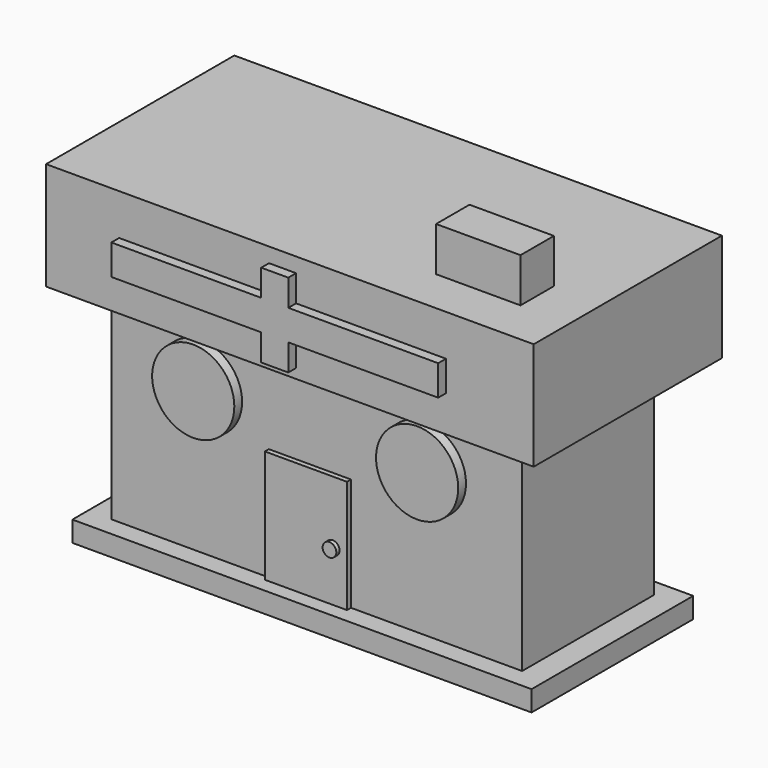
from build123d import *

# Parameters (mm, degrees)
F0_W      = 101.6
F0_H      = 68.58
F1_DEPTH  = 40.72618
F2_W      = 113.5625839233
F2_H      = 49.9769216403
F2_W_2    = 101.6
F2_H_2    = 40.72618
F3_DEPTH  = 5.08
F4_W      = 120.6015869975
F4_H      = 58.1890912727
F5_DEPTH  = 26.66627
F6_W      = 20.8823755383
F6_H      = 10.3238727897
F7_DEPTH  = 37.60094
F8_R      = 10.16
F9_DEPTH  = 2.40593
F10_W     = 20.32
F10_H     = 27.94
F11_DEPTH = 1.23276
F12_R     = 1.691966396
F13_DEPTH = 0.99812
F14_W     = 37.0720839128
F14_H     = 7.5082704425
F14_W_2   = 6.6950637847
F14_H_2   = 6.5697357059
F15_DEPTH = 2.40593


with BuildPart() as f1:
    # F0 (on Front) → F1 (new body)
    with BuildSketch(Plane.XZ):
        with Locations((1.4078021049, -17.0019802542)):
            Rectangle(F0_W, F0_H)
    extrude(amount=F1_DEPTH)

    # F4 (on Top) → F5 (join)
    with BuildSketch(Plane.XY):
        with Locations((1.8193461001, -20.4517780803)):
            Rectangle(F4_W, F4_H)
    extrude(amount=F5_DEPTH)

    # F6 (on Top) → F7 (join)
    with BuildSketch(Plane.XY):
        with Locations((39.5357348025, -33.2800494507)):
            Rectangle(F6_W, F6_H)
    extrude(amount=F7_DEPTH)

    # F8 (on face) → F9 (join)
    with BuildSketch(Plane.XZ.offset(40.72618)):
        with Locations((-27.21747756, -15.2132753283)):
            Circle(F8_R)
        with Locations((28.156010434, -14.9786425754)):
            Circle(F8_R)
    extrude(amount=F9_DEPTH)

    # F14 (on face) → F15 (join)
    with BuildSketch(Plane.XZ.offset(49.5463237166)):
        with Locations((-21.8835738488, 12.7081032842)):
            Rectangle(F14_W, F14_H)
        with Locations((0, 19.7471063584)):
            Rectangle(F14_W_2, F14_H_2)
        with Locations((0, 12.7081032842)):
            Rectangle(F14_W_2, F14_H)
        with Locations((21.8835738488, 12.7081032842)):
            Rectangle(F14_W, F14_H)
        with Locations((0, 5.6691002101)):
            Rectangle(F14_W_2, F14_H_2)
    extrude(amount=F15_DEPTH)


with BuildPart() as f3:
    # F2 (on face) → F3 (new body)
    with BuildSketch(Plane(origin=(0, 0, -51.2919802542), x_dir=(1, 0, 0), z_dir=(0, 0, -1))):
        with Locations((1.5847124159, 20.5304254778)):
            Rectangle(F2_W, F2_H)
        with Locations((1.4078021049, 20.36309)):
            Rectangle(F2_W_2, F2_H_2, mode=Mode.SUBTRACT)
    extrude(amount=F3_DEPTH)


with BuildPart() as f11:
    # F10 (on face) → F11 (new body)
    with BuildSketch(Plane.XZ.offset(40.72618)):
        with Locations((-0.2810042986, -37.3219802542)):
            Rectangle(F10_W, F10_H)
    extrude(amount=F11_DEPTH)

    # F12 (on face) → F13 (join)
    with BuildSketch(Plane.XZ.offset(41.95894)):
        with Locations((6.3354712911, -38.9112532139)):
            Circle(F12_R)
    extrude(amount=F13_DEPTH)


solid = Compound([f1.part, f3.part, f11.part])
